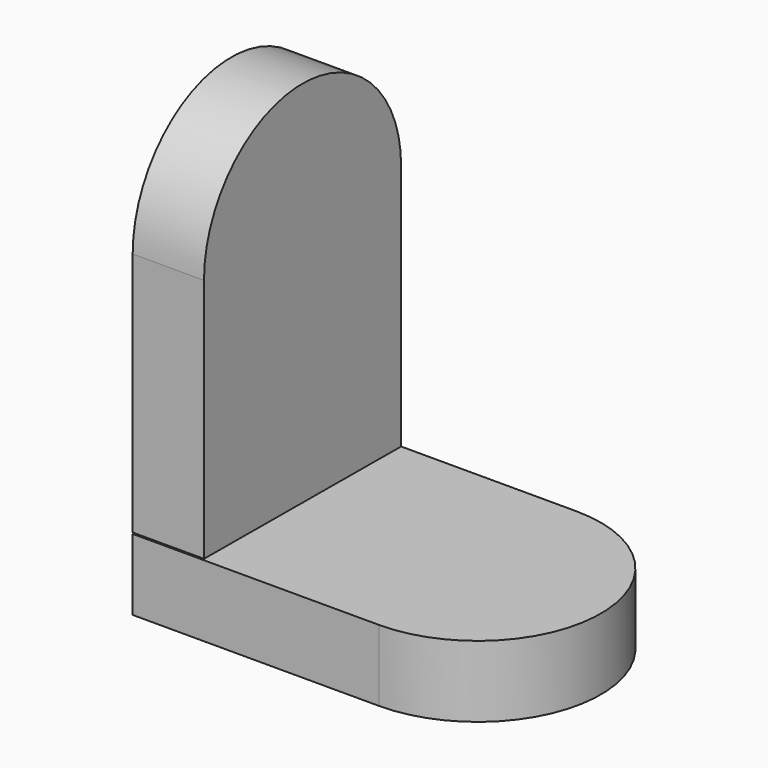
from build123d import *

# Parameters (mm, degrees)
F1_DEPTH = 11
F3_DEPTH = 11


with BuildPart() as f1:
    # F0 (on Top) → F1 (new body)
    with BuildSketch(Plane.XY):
        with BuildLine():
            Line((0, 38), (0, 0))
            Line((0, 0), (38, 0))
            ThreePointArc((38, 0), (57, 19), (38, 38))
            Line((38, 38), (0, 38))
        make_face()
    extrude(amount=F1_DEPTH)


with BuildPart() as f3:
    # F2 (on Right) → F3 (new body)
    with BuildSketch(Plane.YZ):
        with BuildLine():
            Line((0, 49), (0, 11.198676))
            Line((0, 11.198676), (38, 11))
            Line((38, 11), (38, 49))
            ThreePointArc((38, 49), (19, 68), (0, 49))
        make_face()
    extrude(amount=F3_DEPTH)


solid = Compound([f1.part, f3.part])
